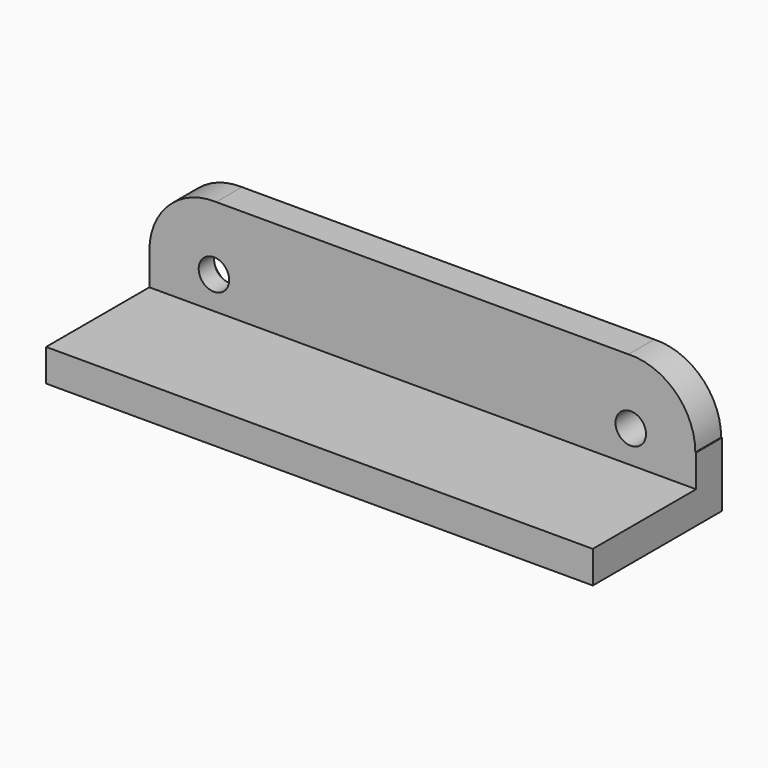
from build123d import *

# Parameters (mm, degrees)
F1_DEPTH = 3.175
F2_W     = 62.6118863001
F2_H     = 3.175
F3_DEPTH = 12.7
F4_SIZE  = 1.27
F5_W     = 15.875
F5_H     = 3.175
F6_DEPTH = 4.5143370517
F7_W     = 15.875
F7_H     = 3.175
F8_DEPTH = 4.3210691154


with BuildPart() as f1:
    # F0 (on Front) → F1 (new body)
    with BuildSketch(Plane.XZ):
        with BuildLine():
            ThreePointArc((-35.500738686, -3.175), (-34.8663710031, -1.6435009364), (-34.65, 0))
            Line((-34.65, 0), (-39.5, 0))
            ThreePointArc((-39.5, 0), (-41, -1.5), (-42.5, 0))
            Line((-42.5, 0), (-47.35, 0))
            ThreePointArc((-47.35, 0), (-47.1336289969, -1.6435009364), (-46.499261314, -3.175))
            Line((-46.499261314, -3.175), (-35.500738686, -3.175))
        make_face()
        with BuildLine():
            ThreePointArc((-40.777693324, 6.346107448), (-36.4319507778, 4.4108305685), (-34.65, 0))
            Line((-34.65, 0), (-6.35, 0))
            ThreePointArc((-6.35, 0), (-4.5680492222, 4.4108305685), (-0.222306676, 6.346107448))
            Line((-0.222306676, 6.346107448), (-40.777693324, 6.346107448))
        make_face()
        with BuildLine():
            Line((-39.5, 0), (-34.65, 0))
            ThreePointArc((-34.65, 0), (-36.4319507778, 4.4108305685), (-40.777693324, 6.346107448))
            ThreePointArc((-40.777693324, 6.346107448), (-45.4108305685, 4.5680492222), (-47.35, 0))
            Line((-47.35, 0), (-42.5, 0))
            ThreePointArc((-42.5, 0), (-41, 1.5), (-39.5, 0))
        make_face()
        with BuildLine():
            ThreePointArc((-46.499261314, -3.175), (-47.1336289969, -1.6435009364), (-47.35, 0))
            Line((-47.35, 0), (-47.35, -3.175))
            Line((-47.35, -3.175), (-46.499261314, -3.175))
        make_face()
        with BuildLine():
            ThreePointArc((-0.222306676, 6.346107448), (-4.5680492222, 4.4108305685), (-6.35, 0))
            Line((-6.35, 0), (-1.5, 0))
            ThreePointArc((-1.5, 0), (0, 1.5), (1.5, 0))
            Line((1.5, 0), (6.35, 0))
            ThreePointArc((6.35, 0), (4.4108305685, 4.5680492222), (-0.222306676, 6.346107448))
        make_face()
        with BuildLine():
            Line((-1.5, 0), (-6.35, 0))
            ThreePointArc((-6.35, 0), (-6.1336289969, -1.6435009364), (-5.499261314, -3.175))
            Line((-5.499261314, -3.175), (5.499261314, -3.175))
            ThreePointArc((5.499261314, -3.175), (6.1336289969, -1.6435009364), (6.35, 0))
            Line((6.35, 0), (1.5, 0))
            ThreePointArc((1.5, 0), (0, -1.5), (-1.5, 0))
        make_face()
        with BuildLine():
            Line((-51.6710691154, -6.35), (-41, -6.35))
            ThreePointArc((-41, -6.35), (-44.175, -5.499261314), (-46.499261314, -3.175))
            Line((-46.499261314, -3.175), (-47.35, -3.175))
            Line((-47.35, -3.175), (-51.6710691154, -3.175))
            Line((-51.6710691154, -3.175), (-51.6710691154, -6.35))
        make_face()
        with BuildLine():
            Line((-5.499261314, -3.175), (-35.500738686, -3.175))
            ThreePointArc((-35.500738686, -3.175), (-37.825, -5.499261314), (-41, -6.35))
            Line((-41, -6.35), (3.51e-08, -6.35))
            ThreePointArc((3.51e-08, -6.35), (-3.1749999848, -5.4992613228), (-5.499261314, -3.175))
        make_face()
        with BuildLine():
            ThreePointArc((5.499261314, -3.175), (3.1750000152, -5.4992613052), (3.51e-08, -6.35))
            Line((3.51e-08, -6.35), (10.9408171847, -6.35))
            Line((10.9408171847, -6.35), (10.9408171847, -3.175))
            Line((10.9408171847, -3.175), (6.4264801331, -3.175))
            Line((6.4264801331, -3.175), (5.499261314, -3.175))
        make_face()
        with BuildLine():
            Line((-51.6710691154, -6.35), (-41, -6.35))
            ThreePointArc((-41, -6.35), (-44.175, -5.499261314), (-46.499261314, -3.175))
            Line((-46.499261314, -3.175), (-47.35, -3.175))
            Line((-47.35, -3.175), (-51.6710691154, -3.175))
            Line((-51.6710691154, -3.175), (-51.6710691154, -6.35))
        make_face()
        with BuildLine():
            ThreePointArc((-41, -6.35), (-37.825, -5.499261314), (-35.500738686, -3.175))
            Line((-35.500738686, -3.175), (-46.499261314, -3.175))
            ThreePointArc((-46.499261314, -3.175), (-44.175, -5.499261314), (-41, -6.35))
        make_face()
        with BuildLine():
            Line((-6.35, 0), (-34.65, 0))
            ThreePointArc((-34.65, 0), (-34.8663710031, -1.6435009364), (-35.500738686, -3.175))
            Line((-35.500738686, -3.175), (-5.499261314, -3.175))
            ThreePointArc((-5.499261314, -3.175), (-6.1336289969, -1.6435009364), (-6.35, 0))
        make_face()
        with BuildLine():
            Line((5.499261314, -3.175), (-5.499261314, -3.175))
            ThreePointArc((-5.499261314, -3.175), (-3.1749999848, -5.4992613228), (3.51e-08, -6.35))
            ThreePointArc((3.51e-08, -6.35), (3.1750000152, -5.4992613052), (5.499261314, -3.175))
        make_face()
        with BuildLine():
            ThreePointArc((5.499261314, -3.175), (3.1750000152, -5.4992613052), (3.51e-08, -6.35))
            Line((3.51e-08, -6.35), (10.9408171847, -6.35))
            Line((10.9408171847, -6.35), (10.9408171847, -3.175))
            Line((10.9408171847, -3.175), (6.4264801331, -3.175))
            Line((6.4264801331, -3.175), (5.499261314, -3.175))
        make_face()
        with BuildLine():
            Line((6.4264801331, 0), (6.35, 0))
            ThreePointArc((6.35, 0), (6.1336289969, -1.6435009364), (5.499261314, -3.175))
            Line((5.499261314, -3.175), (6.4264801331, -3.175))
            Line((6.4264801331, -3.175), (6.4264801331, 0))
        make_face()
    extrude(amount=F1_DEPTH)

    # F2 (on face) → F3 (join)
    with BuildSketch(Plane.XZ.offset(3.175)):
        with Locations((-20.3651259653, -4.7625)):
            Rectangle(F2_W, F2_H)
    extrude(amount=F3_DEPTH)

    # F4
    f4_edges = [f1.edges().sort_by_distance(p)[0] for p in [
        (-39.5, 0, 0),
    ]]
    chamfer(f4_edges, length=F4_SIZE)

    # F5 (on face) → F6 (cut, through all)
    with BuildSketch(Plane.YZ.offset(10.9408171847)):
        with Locations((-7.9375, -4.7625)):
            Rectangle(F5_W, F5_H)
    extrude(amount=-F6_DEPTH, mode=Mode.SUBTRACT)

    # F7 (on face) → F8 (cut, through all)
    with BuildSketch(Plane(origin=(-51.6710691154, 0, 0), x_dir=(0, -1, 0), z_dir=(-1, 0, 0))):
        with Locations((7.9375, -4.7625)):
            Rectangle(F7_W, F7_H)
    extrude(amount=-F8_DEPTH, mode=Mode.SUBTRACT)


solid = f1.part
